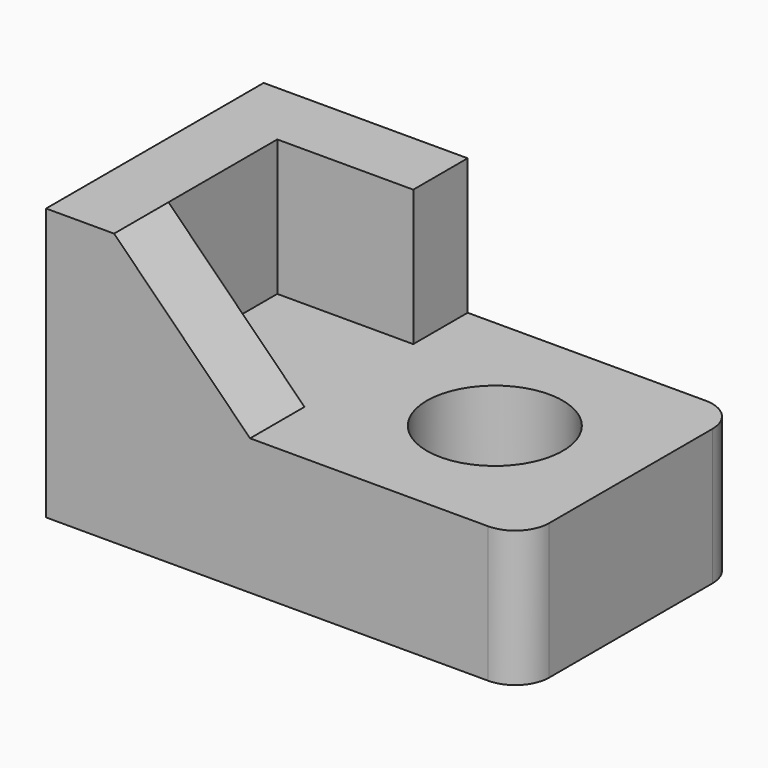
from build123d import *

# Parameters (mm, degrees)
F1_DEPTH = 40
F2_W     = 20
F2_H     = 20
F3_DEPTH = 20
F5_DEPTH = 10
F7_D     = 20
F8_R     = 5


with BuildPart() as f1:
    # F0 (on Front) → F1 (new body)
    with BuildSketch(Plane.XZ):
        Polygon((0, 40), (0, 0), (70, 0), (70, 20), (30, 20), (30, 40), align=None)
    extrude(amount=F1_DEPTH)

    # F2 (on face) → F3 (cut, through all)
    with BuildSketch(Plane.XY.offset(40)):
        with Locations((20, -20)):
            Rectangle(F2_W, F2_H)
    extrude(amount=-F3_DEPTH, mode=Mode.SUBTRACT)

    # F4 (on face) → F5 (cut, through all)
    with BuildSketch(Plane.XZ.offset(40)):
        Polygon((10, 40), (30, 20), (30, 40), align=None)
    extrude(amount=-F5_DEPTH, mode=Mode.SUBTRACT)

    # F7 (through all)
    with Locations(Plane.XY.offset(20)):
        with Locations((50, -20)):
            Hole(F7_D / 2)

    # F8
    f8_edges = [f1.edges().sort_by_distance(p)[0] for p in [
        (70, -40, 10),
        (70, 0, 10),
    ]]
    fillet(f8_edges, radius=F8_R)


solid = f1.part
